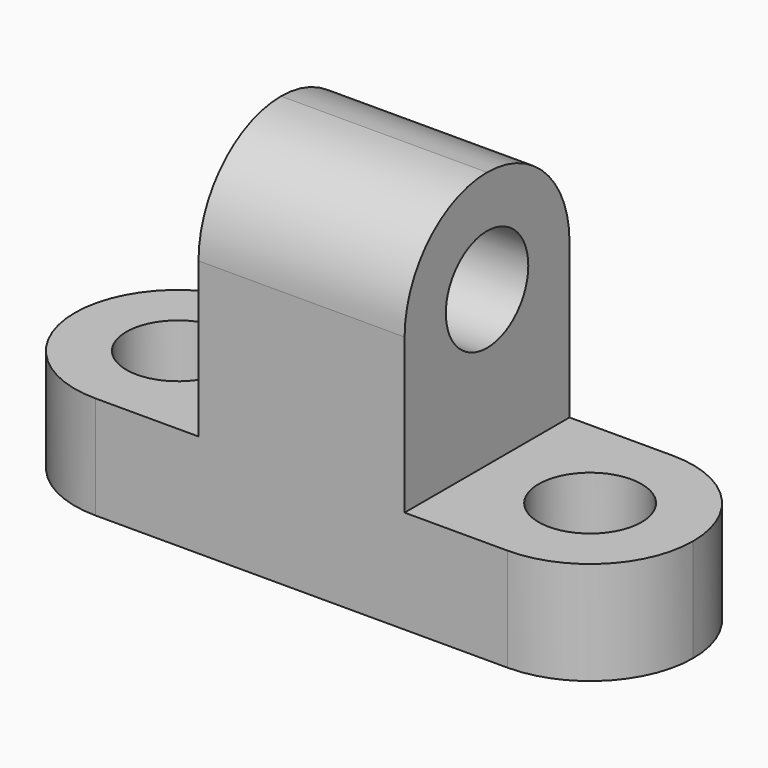
from build123d import *

# Parameters (mm, degrees)
F1_DEPTH = 25.4
F2_R     = 6.35
F3_DEPTH = 12.7
F4_R     = 6.35
F5_DEPTH = 25.4
F6_R     = 6.35
F7_DEPTH = 25.4


with BuildPart() as f1:
    # F0 (on Front) → F1 (new body)
    with BuildSketch(Plane.XZ):
        Polygon((8.057253, 25.457032), (-17.342747, 25.457032), (-17.342747, -6.292968), (-42.742747, -6.292968), (-42.742747, -18.992968), (33.457253, -18.992968), (33.457253, -6.292968), (8.057253, -6.292968), align=None)
    extrude(amount=F1_DEPTH)

    # F2 (on face) → F3 (cut)
    with BuildSketch(Plane.XY.offset(-6.292968)):
        with Locations((20.757253, -12.7)):
            Circle(F2_R)
        with BuildLine():
            ThreePointArc((20.757253, 0), (29.737509, -3.719744), (33.457253, -12.7))
            Line((33.457253, -12.7), (33.457253, 0))
            Line((33.457253, 0), (20.757253, 0))
        make_face()
        with BuildLine():
            Line((33.457253, -25.4), (33.457253, -12.7))
            ThreePointArc((33.457253, -12.7), (29.737509, -21.680256), (20.757253, -25.4))
            Line((20.757253, -25.4), (33.457253, -25.4))
        make_face()
    extrude(amount=-F3_DEPTH, mode=Mode.SUBTRACT)

    # F4 (on face) → F5 (cut)
    with BuildSketch(Plane.XY.offset(-6.292968)):
        with BuildLine():
            ThreePointArc((-30.042747, -25.4), (-39.023003, -21.680256), (-42.742747, -12.7))
            Line((-42.742747, -12.7), (-42.742747, -25.4))
            Line((-42.742747, -25.4), (-33.184517, -25.4))
            Line((-33.184517, -25.4), (-30.042747, -25.4))
        make_face()
        with Locations((-30.042747, -12.7)):
            Circle(F4_R)
        with BuildLine():
            ThreePointArc((-42.742747, -12.7), (-39.023003, -3.719744), (-30.042747, 0))
            Line((-30.042747, 0), (-32.238074, 0))
            Line((-32.238074, 0), (-42.742747, 0))
            Line((-42.742747, 0), (-42.742747, -12.7))
        make_face()
    extrude(amount=-F5_DEPTH, mode=Mode.SUBTRACT)

    # F6 (on face) → F7 (cut)
    with BuildSketch(Plane.YZ.offset(8.057253)):
        with Locations((-12.7, 12.757032)):
            Circle(F6_R)
        with BuildLine():
            Line((0, 25.457032), (-12.7, 25.457032))
            ThreePointArc((-12.7, 25.457032), (-3.719744, 21.737288), (0, 12.757032))
            Line((0, 12.757032), (0, 16.704505))
            Line((0, 16.704505), (0, 25.457032))
        make_face()
        with BuildLine():
            Line((-25.4, 15.099765), (-25.4, 12.757032))
            ThreePointArc((-25.4, 12.757032), (-21.680256, 21.737288), (-12.7, 25.457032))
            Line((-12.7, 25.457032), (-25.4, 25.457032))
            Line((-25.4, 25.457032), (-25.4, 15.099765))
        make_face()
    extrude(amount=-F7_DEPTH, mode=Mode.SUBTRACT)


solid = f1.part
